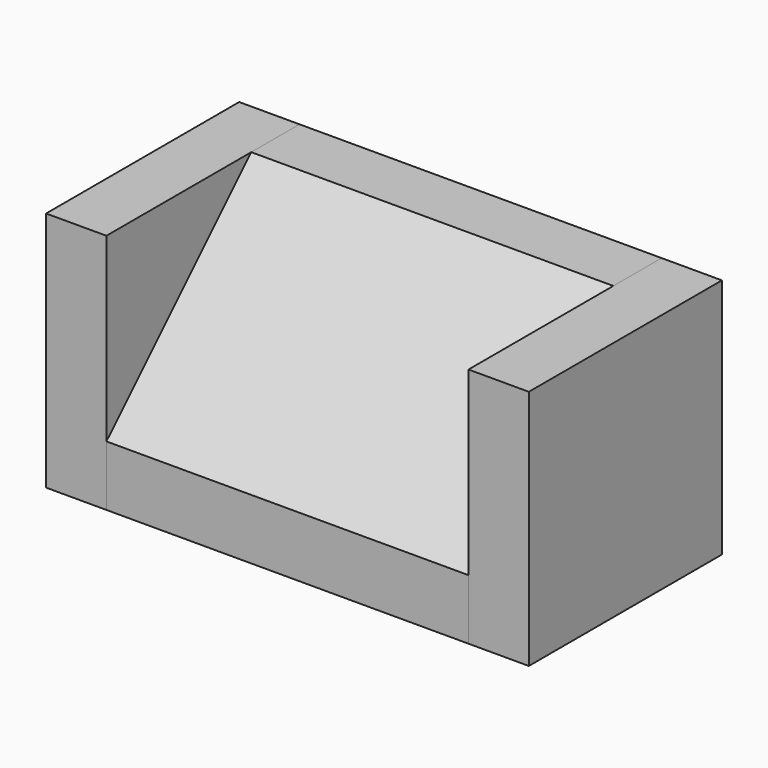
from build123d import *

# Parameters (mm, degrees)
F0_W     = 152.4
F0_H     = 101.6
F1_DEPTH = 101.6
F3_DEPTH = 152.401
F4_W     = 25.4
F4_H     = 101.6
F5_DEPTH = 101.6


with BuildPart() as f1:
    # F0 (on Top) → F1 (new body)
    with BuildSketch(Plane.XY):
        with Locations((-3.942049, 18.584252)):
            Rectangle(F0_W, F0_H)
    extrude(amount=F1_DEPTH)

    # F2 (on face) → F3 (cut, through all)
    with BuildSketch(Plane.YZ.offset(72.257951)):
        Polygon((-32.215748, 101.6), (-32.215748, 25.4), (43.984252, 101.6), align=None)
    extrude(amount=-F3_DEPTH, mode=Mode.SUBTRACT)


with BuildPart() as f5:
    # F4 (on face) → F5 (new body)
    with BuildSketch(Plane.XY.offset(101.6)):
        with Locations((-92.842049, 18.584252)):
            Rectangle(F4_W, F4_H)
        with Locations((84.957951, 18.584252)):
            Rectangle(F4_W, F4_H)
    extrude(amount=-F5_DEPTH)


solid = Compound([f1.part, f5.part])
